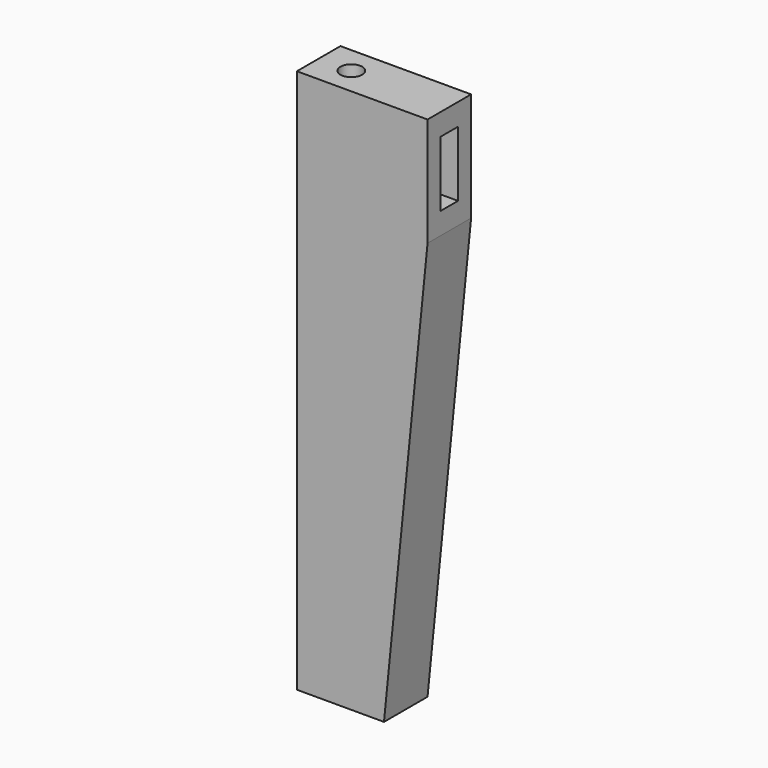
from build123d import *

# Parameters (mm, degrees)
F1_DEPTH = 12.5
F2_W     = 10
F2_H     = 30
F3_DEPTH = 25
F4_W     = 10
F4_H     = 20
F5_DEPTH = 10
F6_R     = 5
F7_DEPTH = 25


with BuildPart() as f1:
    # F0 (on Front) → F1 (new body, symmetric)
    with BuildSketch(Plane.XZ):
        Polygon((-40, 0), (0, 0), (20, 200), (20, 250), (-40, 250), align=None)
    extrude(amount=F1_DEPTH, both=True)

    # F2 (on face) → F3 (cut)
    with BuildSketch(Plane.YZ.offset(20)):
        with Locations((0, 225)):
            Rectangle(F2_W, F2_H)
    extrude(amount=-F3_DEPTH, mode=Mode.SUBTRACT)

    # F4 (on face) → F5 (cut)
    with BuildSketch(Plane(origin=(0, 12.5, 0), x_dir=(-1, 0, 0), z_dir=(0, 1, 0))):
        with Locations((20, 100)):
            Rectangle(F4_W, F4_H)
    extrude(amount=-F5_DEPTH, mode=Mode.SUBTRACT)

    # F6 (on face) → F7 (cut)
    with BuildSketch(Plane.XY.offset(250)):
        with Locations((-25, 0)):
            Circle(F6_R)
    extrude(amount=-F7_DEPTH, mode=Mode.SUBTRACT)


solid = f1.part
